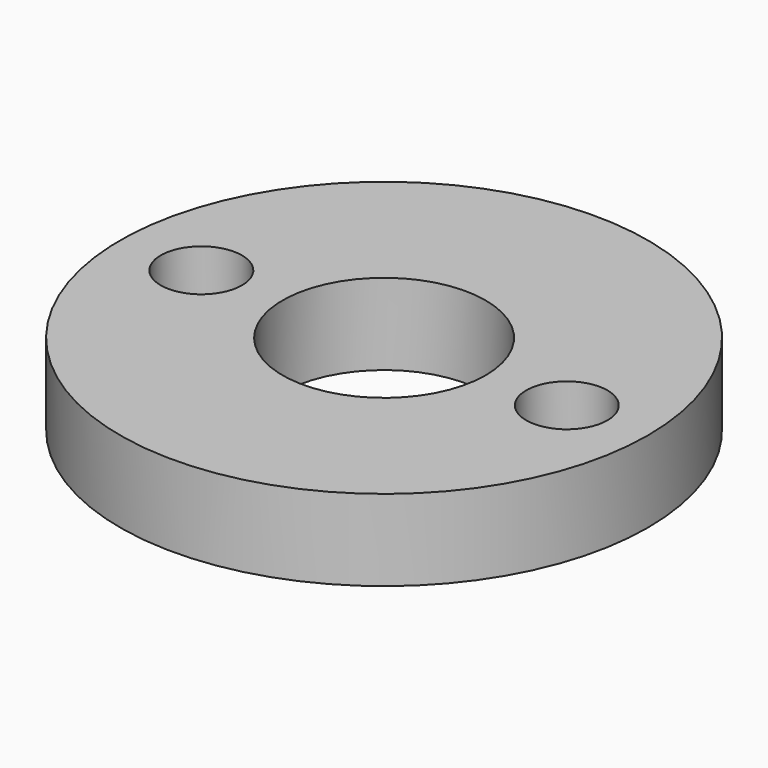
from build123d import *

# Parameters (mm, degrees)
F0_W     = 20
F0_H     = 10
F2_R     = 5
F3_DEPTH = 25


with BuildPart() as f1:
    # F0 (on Front) → F1 (revolve)
    with BuildSketch(Plane.XZ):
        with Locations((22.5, 5)):
            Rectangle(F0_W, F0_H)
    revolve(axis=Axis((0, 0, -0.255103), (0, 0, -1)))

    # F2 (on face) → F3 (cut)
    with BuildSketch(Plane.XY.offset(10)):
        with Locations((-22.5, 0)):
            Circle(F2_R)
        with Locations((22.5, 0)):
            Circle(F2_R)
    extrude(amount=-F3_DEPTH, mode=Mode.SUBTRACT)


solid = f1.part
